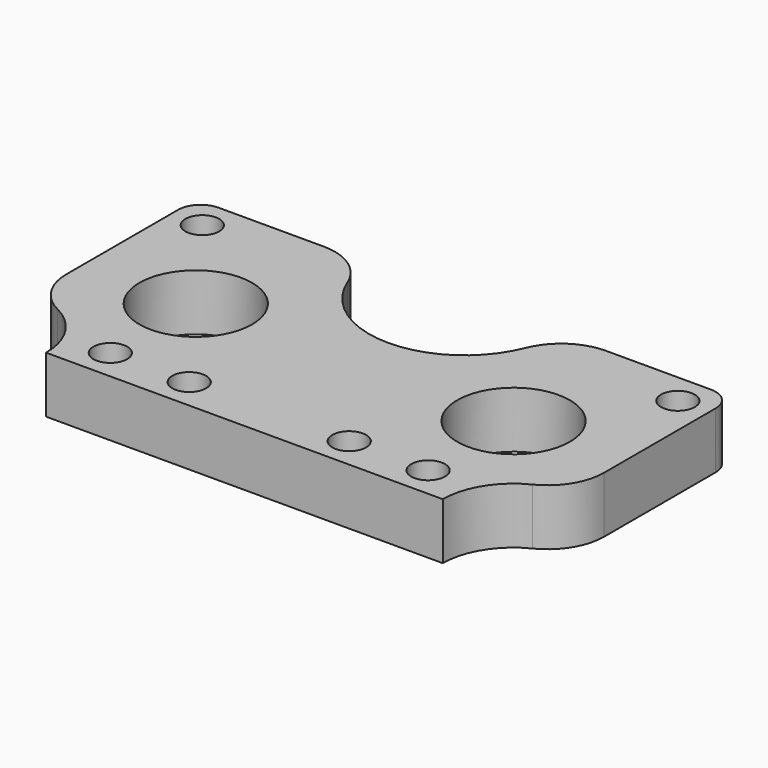
from build123d import *

# Parameters (mm, degrees)
F0_R     = 1.5
F0_R_2   = 5
F1_DEPTH = 5


with BuildPart() as f1:
    # F0 (on Top) → F1 (new body)
    with BuildSketch(Plane.XY):
        with BuildLine():
            ThreePointArc((16.389126, 19.704641), (15.80334, 21.118855), (14.389126, 21.704641))
            Line((14.389126, 21.704641), (5.079063, 21.704641))
            ThreePointArc((5.079063, 21.704641), (2.273645, 20.843437), (0.434642, 18.556493))
            ThreePointArc((0.434642, 18.556493), (-7.460874, 13.204641), (-15.356389, 18.556493))
            ThreePointArc((-15.356389, 18.556493), (-17.195392, 20.843437), (-20.00081, 21.704641))
            Line((-20.00081, 21.704641), (-29.310874, 21.704641))
            ThreePointArc((-29.310874, 21.704641), (-30.725087, 21.118855), (-31.310874, 19.704641))
            Line((-31.310874, 19.704641), (-31.310874, 7.327822))
            ThreePointArc((-31.310874, 7.327822), (-30.560057, 4.692591), (-28.533096, 2.84879))
            ThreePointArc((-28.533096, 2.84879), (-25.999395, 0.544039), (-25.060874, -2.75))
            Line((-25.060874, -2.75), (10.139126, -2.75))
            ThreePointArc((10.139126, -2.75), (11.077648, 0.544039), (13.611349, 2.84879))
            ThreePointArc((13.611349, 2.84879), (15.638309, 4.692591), (16.389126, 7.327822))
            Line((16.389126, 7.327822), (16.389126, 19.704641))
        make_face()
        with Locations((-21.560874, 0)):
            Circle(F0_R, mode=Mode.SUBTRACT)
        with Locations((-14.560874, 0)):
            Circle(F0_R, mode=Mode.SUBTRACT)
        with Locations((-21.560874, 9.47732)):
            Circle(F0_R_2, mode=Mode.SUBTRACT)
        with Locations((-0.360874, 0)):
            Circle(F0_R, mode=Mode.SUBTRACT)
        with Locations((6.639126, 0)):
            Circle(F0_R, mode=Mode.SUBTRACT)
        with Locations((-28.560874, 18.954641)):
            Circle(F0_R, mode=Mode.SUBTRACT)
        with Locations((6.639126, 9.47732)):
            Circle(F0_R_2, mode=Mode.SUBTRACT)
        with Locations((13.639126, 18.954641)):
            Circle(F0_R, mode=Mode.SUBTRACT)
    extrude(amount=F1_DEPTH)


solid = f1.part
